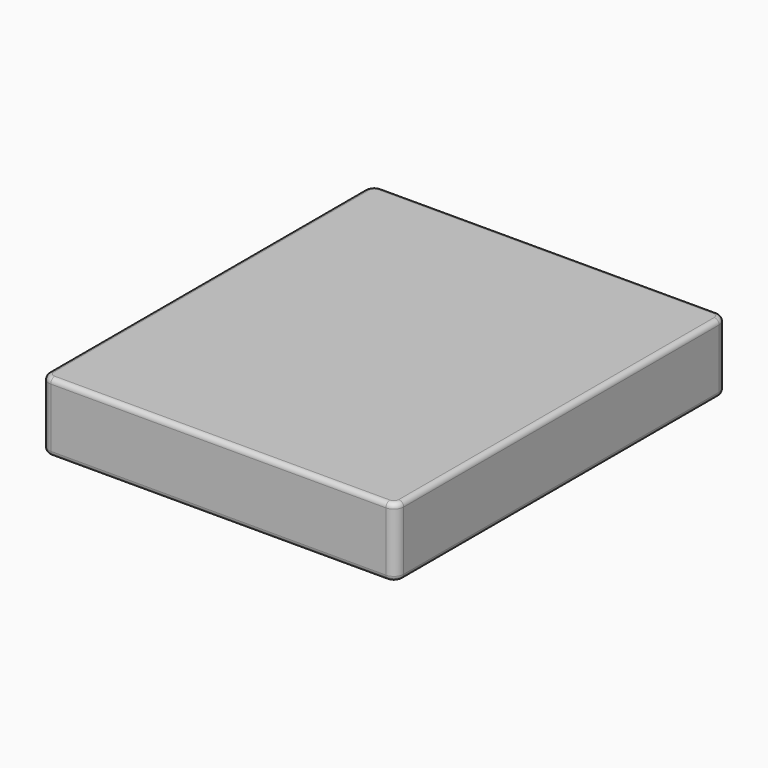
from build123d import *

# Parameters (mm, degrees)
F0_W     = 1828.8
F0_H     = 2133.6
F1_DEPTH = 355.6
F2_R     = 50.8
F3_R     = 25.4


with BuildPart() as f1:
    # F0 (on Top) → F1 (new body)
    with BuildSketch(Plane.XY):
        Rectangle(F0_W, F0_H)
    extrude(amount=F1_DEPTH)

    # F2
    f2_edges = [f1.edges().sort_by_distance(p)[0] for p in [
        (-914.4, 1066.8, 177.8),
        (-914.4, -1066.8, 177.8),
        (914.4, 1066.8, 177.8),
        (914.4, -1066.8, 177.8),
    ]]
    fillet(f2_edges, radius=F2_R)

    # F3
    f3_edges = [f1.edges().sort_by_distance(p)[0] for p in [
        (0, -1066.8, 355.6),
        (0, -1066.8, 0),
    ]]
    fillet(f3_edges, radius=F3_R)


solid = f1.part
